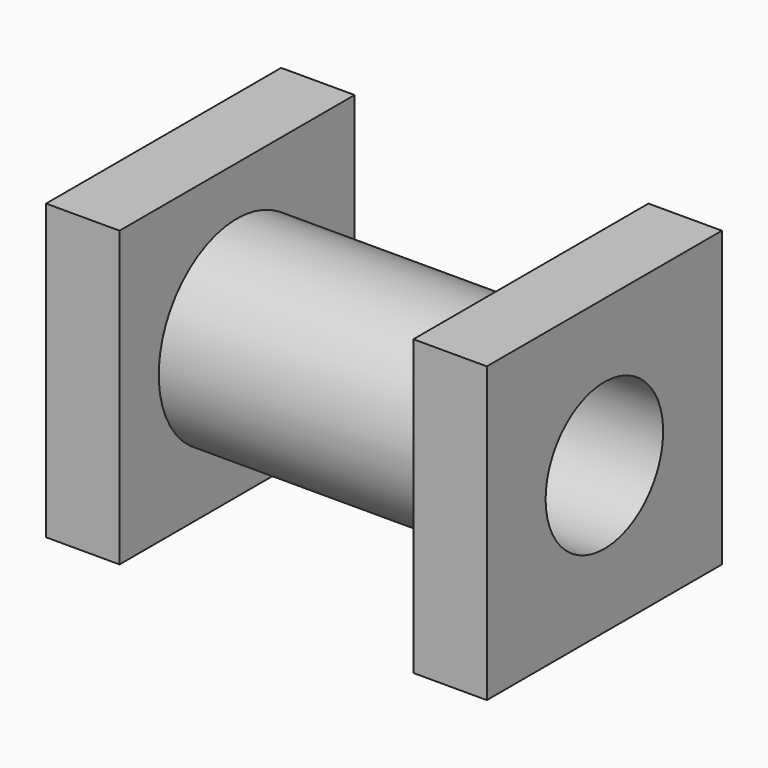
from build123d import *

# Parameters (mm, degrees)
F0_W     = 76.2
F0_H     = 76.2
F1_DEPTH = 19.05
F2_R     = 25.4
F3_DEPTH = 76.2
F4_W     = 76.2
F4_H     = 76.2
F4_R     = 25.4
F5_DEPTH = 19.05
F6_R     = 19.05
F7_DEPTH = 114.3


with BuildPart() as f1:
    # F0 (on Right) → F1 (new body)
    with BuildSketch(Plane.YZ):
        Rectangle(F0_W, F0_H)
    extrude(amount=F1_DEPTH)

    # F2 (on face) → F3 (join)
    with BuildSketch(Plane.YZ.offset(19.05)):
        Circle(F2_R)
    extrude(amount=F3_DEPTH)

    # F4 (on face) → F5 (join)
    with BuildSketch(Plane.YZ.offset(95.25)):
        Rectangle(F4_W, F4_H)
        Circle(F4_R, mode=Mode.SUBTRACT)
        Circle(F4_R)
    extrude(amount=F5_DEPTH)

    # F6 (on face) → F7 (cut)
    with BuildSketch(Plane(origin=(0, 0, 0), x_dir=(0, -1, 0), z_dir=(-1, 0, 0))):
        Circle(F6_R)
    extrude(amount=-F7_DEPTH, mode=Mode.SUBTRACT)


solid = f1.part
